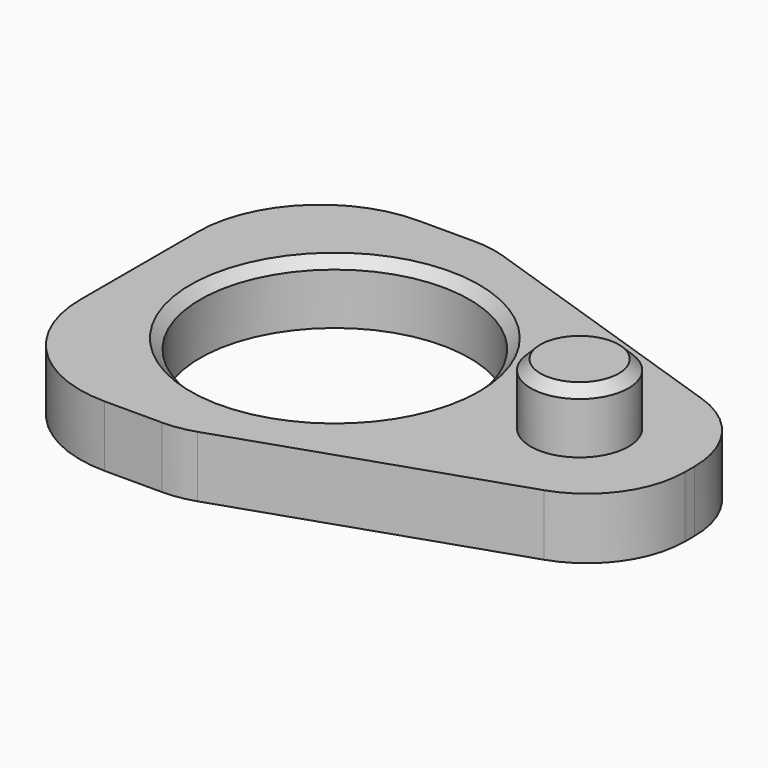
from build123d import *

# Parameters (mm, degrees)
F0_R     = 11
F0_R_2   = 4
F1_DEPTH = 5
F2_DEPTH = 10
F3_SIZE  = 0.8


with BuildPart() as f1:
    # F0 (on Top) → F1 (new body)
    with BuildSketch(Plane.XY):
        with BuildLine():
            Line((-1.3099432081, 16), (-6, 16))
            ThreePointArc((-6, 16), (-13.0710678119, 13.0710678119), (-16, 6))
            Line((-16, 6), (-16, -6))
            ThreePointArc((-16, -6), (-13.0710678119, -13.0710678119), (-6, -16))
            Line((-6, -16), (-1.3099432081, -16))
            ThreePointArc((-1.3099432081, -16), (-0.0172155068, -15.8948625758), (1.2415336792, -15.5822137726))
            Line((1.2415336792, -15.5822137726), (23.5514768872, -8.074735593))
            ThreePointArc((23.5514768872, -8.074735593), (27.4966073876, -5.1609361605), (29, -0.4925218204))
            Line((29, -0.4925218204), (29, 0.4925218204))
            ThreePointArc((29, 0.4925218204), (27.4966073876, 5.1609361605), (23.5514768872, 8.074735593))
            Line((23.5514768872, 8.074735593), (1.2415336792, 15.5822137726))
            ThreePointArc((1.2415336792, 15.5822137726), (-0.0172155068, 15.8948625758), (-1.3099432081, 16))
        make_face()
        Circle(F0_R, mode=Mode.SUBTRACT)
        with Locations((20, 0)):
            Circle(F0_R_2, mode=Mode.SUBTRACT)
        with Locations((20, 0)):
            Circle(F0_R_2)
    extrude(amount=F1_DEPTH)

    # F0 (on Top) → F2 (join, through all)
    with BuildSketch(Plane.XY):
        with Locations((20, 0)):
            Circle(F0_R_2)
    extrude(amount=F2_DEPTH)

    # F3
    f3_edges = [f1.edges().sort_by_distance(p)[0] for p in [
        (16, 0, 10),
        (-11, 0, 5),
    ]]
    chamfer(f3_edges, length=F3_SIZE)


solid = f1.part
